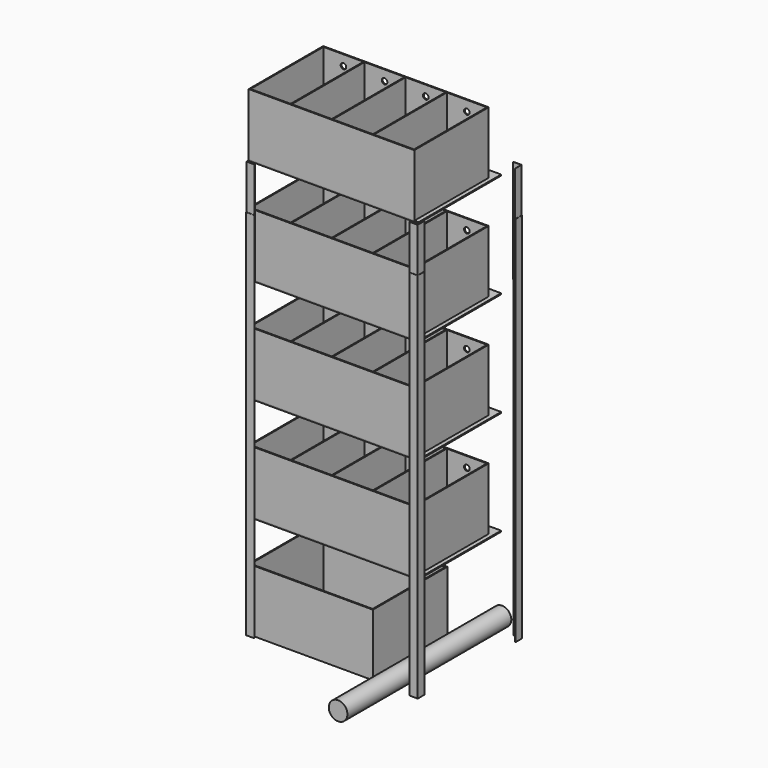
from build123d import *

# Parameters (mm, degrees)
F2_W      = 600
F2_H      = 450
F3_DEPTH  = 300
F5_W      = 820
F5_H      = 500
F6_DEPTH  = 5
F7_W      = 800
F7_H      = 450
F8_DEPTH  = 300
F9_T      = -5
F11_W     = 820
F11_H     = 500
F12_DEPTH = 5
F13_W     = 800
F13_H     = 450
F14_DEPTH = 300
F15_T     = -5
F17_W     = 820
F17_H     = 500
F18_DEPTH = 5
F19_W     = 800
F19_H     = 450
F20_DEPTH = 300
F21_T     = -5
F23_W     = 820
F23_H     = 500
F24_DEPTH = 5
F25_W     = 800
F25_H     = 450
F26_DEPTH = 300
F27_T     = -5
F29_R     = 45
F30_DEPTH = 990
F31_W     = 2.5
F31_H     = 440
F31_W_2   = 5
F32_DEPTH = 295
F33_W     = 5
F33_H     = 440
F34_DEPTH = 295
F35_W     = 5
F35_H     = 440
F36_DEPTH = 295
F37_W     = 5
F37_H     = 440
F38_DEPTH = 295
F40_DEPTH = 1800
F41_T     = -5
F43_DEPTH = 500
F44_R     = 13.5
F45_DEPTH = 25


with BuildPart() as f3:
    # F2 (on Top) → F3 (new body)
    with BuildSketch(Plane.XY):
        with Locations((-111, -78.4780800343)):
            Rectangle(F2_W, F2_H)
    extrude(amount=F3_DEPTH)

    # F41
    f41_openings = [f3.faces().sort_by_distance(p)[0] for p in [
        (-111, -78.47808, 300),
    ]]
    offset(amount=F41_T, openings=f41_openings)


with BuildPart() as f6:
    # F5 (on offset) → F6 (new body)
    with BuildSketch(Plane.XY.offset(500)):
        with Locations((-1, -53.4780800343)):
            Rectangle(F5_W, F5_H)
    extrude(amount=F6_DEPTH)


with BuildPart() as f8:
    # F7 (on face) → F8 (new body)
    with BuildSketch(Plane.XY.offset(505)):
        with Locations((-11, -78.4780800343)):
            Rectangle(F7_W, F7_H)
    extrude(amount=F8_DEPTH)

    # F9
    f9_openings = [f8.faces().sort_by_distance(p)[0] for p in [
        (-11, -78.47808, 805),
    ]]
    offset(amount=F9_T, openings=f9_openings)

    # F31 (on face) → F32 (join, through all)
    with BuildSketch(Plane.XY.offset(510)):
        with Locations((-211, -78.4780800343)):
            Rectangle(F31_W, F31_H)
        with Locations((-208.5, -78.4780800343)):
            Rectangle(F31_W, F31_H)
        with Locations((-12.25, -78.4780800343)):
            Rectangle(F31_W, F31_H)
        with Locations((-9.75, -78.4780800343)):
            Rectangle(F31_W, F31_H)
        with Locations((187.75, -78.4780800343)):
            Rectangle(F31_W_2, F31_H)
    extrude(amount=F32_DEPTH)


with BuildPart() as f12:
    # F11 (on offset) → F12 (new body)
    with BuildSketch(Plane.XY.offset(1005)):
        with Locations((-1, -53.4780800343)):
            Rectangle(F11_W, F11_H)
    extrude(amount=F12_DEPTH)


with BuildPart() as f14:
    # F13 (on face) → F14 (new body)
    with BuildSketch(Plane.XY.offset(1010)):
        with Locations((-11, -78.4780800343)):
            Rectangle(F13_W, F13_H)
    extrude(amount=F14_DEPTH)

    # F15
    f15_openings = [f14.faces().sort_by_distance(p)[0] for p in [
        (-11, -78.47808, 1310),
    ]]
    offset(amount=F15_T, openings=f15_openings)

    # F33 (on face) → F34 (join, through all)
    with BuildSketch(Plane.XY.offset(1015)):
        with Locations((-209.75, -78.4780800343)):
            Rectangle(F33_W, F33_H)
        with Locations((-11, -78.4780800343)):
            Rectangle(F33_W, F33_H)
        with Locations((187.75, -78.4780800343)):
            Rectangle(F33_W, F33_H)
    extrude(amount=F34_DEPTH)


with BuildPart() as f18:
    # F17 (on offset) → F18 (new body)
    with BuildSketch(Plane.XY.offset(1510)):
        with Locations((-1, -53.4780800343)):
            Rectangle(F17_W, F17_H)
    extrude(amount=F18_DEPTH)


with BuildPart() as f20:
    # F19 (on face) → F20 (new body)
    with BuildSketch(Plane.XY.offset(1515)):
        with Locations((-11, -78.4780800343)):
            Rectangle(F19_W, F19_H)
    extrude(amount=F20_DEPTH)

    # F21
    f21_openings = [f20.faces().sort_by_distance(p)[0] for p in [
        (-11, -78.47808, 1815),
    ]]
    offset(amount=F21_T, openings=f21_openings)

    # F35 (on face) → F36 (join, through all)
    with BuildSketch(Plane.XY.offset(1520)):
        with Locations((-209.75, -78.4780800343)):
            Rectangle(F35_W, F35_H)
        with Locations((-11, -78.4780800343)):
            Rectangle(F35_W, F35_H)
        with Locations((187.75, -78.4780800343)):
            Rectangle(F35_W, F35_H)
    extrude(amount=F36_DEPTH)


with BuildPart() as f24:
    # F23 (on offset) → F24 (new body)
    with BuildSketch(Plane.XY.offset(2015)):
        with Locations((-1, -53.4780800343)):
            Rectangle(F23_W, F23_H)
    extrude(amount=F24_DEPTH)


with BuildPart() as f26:
    # F25 (on face) → F26 (new body)
    with BuildSketch(Plane.XY.offset(2020)):
        with Locations((-11, -78.4780800343)):
            Rectangle(F25_W, F25_H)
    extrude(amount=F26_DEPTH)

    # F27
    f27_openings = [f26.faces().sort_by_distance(p)[0] for p in [
        (-11, -78.47808, 2320),
    ]]
    offset(amount=F27_T, openings=f27_openings)

    # F37 (on face) → F38 (join, through all)
    with BuildSketch(Plane.XY.offset(2025)):
        with Locations((-209.75, -78.4780800343)):
            Rectangle(F37_W, F37_H)
        with Locations((-11, -78.4780800343)):
            Rectangle(F37_W, F37_H)
        with Locations((187.75, -78.4780800343)):
            Rectangle(F37_W, F37_H)
    extrude(amount=F38_DEPTH)


with BuildPart() as f30:
    # F29 (on face) → F30 (new body)
    with BuildSketch(Plane.XZ.offset(-315)):
        with Locations((318.2043433189, 63.1147623062)):
            Circle(F29_R)
    extrude(amount=F30_DEPTH)


with BuildPart() as f40:
    # F39 (on Top) → F40 (new body)
    with BuildSketch(Plane.XY):
        Polygon((-415, -275), (-415, -315), (-375, -315), (-375, -314), (-414, -314), (-414, -275), align=None)
    extrude(amount=F40_DEPTH)


with BuildPart() as f40b:
    # F39 (on Top) → F40, piece 2 (new body)
    with BuildSketch(Plane.XY):
        Polygon((375, -314), (375, -315), (415, -315), (415, -275), (414, -275), (414, -314), align=None)
    extrude(amount=F40_DEPTH)


with BuildPart() as f40c:
    # F39 (on Top) → F40, piece 3 (new body)
    with BuildSketch(Plane.XY):
        Polygon((415, 315), (375, 315), (375, 314), (414, 314), (414, 275), (415, 275), align=None)
    extrude(amount=F40_DEPTH)


with BuildPart() as f40d:
    # F39 (on Top) → F40, piece 4 (new body)
    with BuildSketch(Plane.XY):
        Polygon((-415, 315), (-415, 275), (-414, 275), (-414, 314), (-375, 314), (-375, 315), align=None)
    extrude(amount=F40_DEPTH)


with BuildPart() as f43:
    # F42 (on face) → F43 (new body, through all)
    with BuildSketch(Plane.XY.offset(1515)):
        Polygon((414, 275), (414, 314), (375, 314), (374, 314), (374, 313), (413, 313), (413, 274), (414, 274), align=None)
    extrude(amount=F43_DEPTH)


with BuildPart() as f43b:
    # F42 (on face) → F43, piece 2 (new body, through all)
    with BuildSketch(Plane.XY.offset(1515)):
        Polygon((374, -314), (375, -314), (414, -314), (414, -275), (414, -274), (413, -274), (413, -313), (374, -313), align=None)
    extrude(amount=F43_DEPTH)


with BuildPart() as f43c:
    # F42 (on face) → F43, piece 3 (new body, through all)
    with BuildSketch(Plane.XY.offset(1515)):
        Polygon((-414, -274), (-414, -275), (-414, -314), (-375, -314), (-374, -314), (-374, -313), (-413, -313), (-413, -274), align=None)
    extrude(amount=F43_DEPTH)


with BuildPart() as f43d:
    # F42 (on face) → F43, piece 4 (new body, through all)
    with BuildSketch(Plane.XY.offset(1515)):
        Polygon((-414, 314), (-414, 275), (-414, 274), (-413, 274), (-413, 313), (-374, 313), (-374, 314), (-375, 314), align=None)
    extrude(amount=F43_DEPTH)


with BuildPart() as f45_tool:
    # F44 (on face) → F45 (new body)
    with BuildSketch(Plane(origin=(0, 146.5219199657, 0), x_dir=(-1, 0, 0), z_dir=(0, 1, 0))):
        with Locations((-287.125, 2270)):
            Circle(F44_R)
        with Locations((-88.375, 2270)):
            Circle(F44_R)
        with Locations((110.375, 2270)):
            Circle(F44_R)
        with Locations((309.125, 2270)):
            Circle(F44_R)
        with Locations((-287.125, 1765)):
            Circle(F44_R)
        with Locations((-88.375, 1765)):
            Circle(F44_R)
        with Locations((110.375, 1765)):
            Circle(F44_R)
        with Locations((309.125, 1765)):
            Circle(F44_R)
        with Locations((-287.125, 1260)):
            Circle(F44_R)
        with Locations((-88.375, 1260)):
            Circle(F44_R)
        with Locations((110.375, 1260)):
            Circle(F44_R)
        with Locations((309.125, 1260)):
            Circle(F44_R)
        with Locations((-287.125, 755)):
            Circle(F44_R)
        with BuildLine():
            ThreePointArc((-74.875, 755), (-78.829058454, 764.545941546), (-88.375, 768.5))
            ThreePointArc((-88.375, 768.5), (-97.920941546, 745.454058454), (-74.875, 755))
        make_face()
        with Locations((110.375, 755)):
            Circle(F44_R)
        with Locations((309.125, 755)):
            Circle(F44_R)
    extrude(amount=-F45_DEPTH)


with BuildPart() as f8_1:
    add(f8.part)

    # F45: cut by f45_tool
    add(f45_tool.part, mode=Mode.SUBTRACT)


with BuildPart() as f14_1:
    add(f14.part)

    # F45: cut by f45_tool
    add(f45_tool.part, mode=Mode.SUBTRACT)


with BuildPart() as f20_1:
    add(f20.part)

    # F45: cut by f45_tool
    add(f45_tool.part, mode=Mode.SUBTRACT)


with BuildPart() as f26_1:
    add(f26.part)

    # F45: cut by f45_tool
    add(f45_tool.part, mode=Mode.SUBTRACT)


solid = Compound([f3.part, f6.part, f12.part, f18.part, f24.part, f30.part, f40.part, f40b.part, f40c.part, f40d.part, f43.part, f43b.part, f43c.part, f43d.part, f8_1.part, f14_1.part, f20_1.part, f26_1.part])
